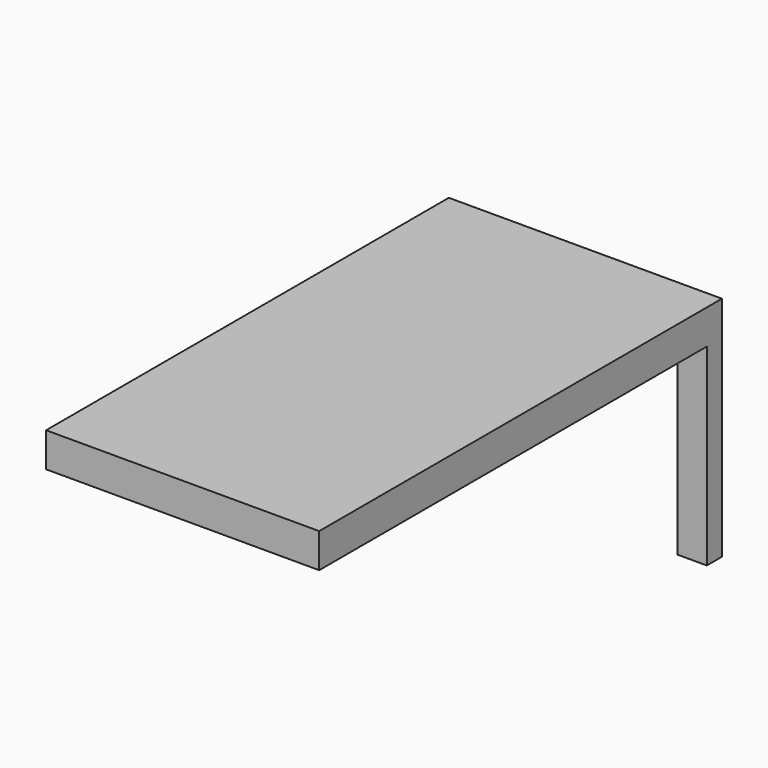
from build123d import *

# Parameters (mm, degrees)
F0_W     = 41.2172749639
F0_H     = 75.9690925479
F1_DEPTH = 5.19546
F2_W     = 4.0409080684
F2_H     = 28.6904554814
F3_DEPTH = 3.31435
F4_W     = 4.445001483
F4_H     = 29.0945470333
F5_DEPTH = 2.85121


with BuildPart() as f1:
    # F0 (on Top) → F1 (new body)
    with BuildSketch(Plane.XY):
        with Locations((20.6086374819, -37.9845462739)):
            Rectangle(F0_W, F0_H)
    extrude(amount=F1_DEPTH)

    # F2 (on Front) → F3 (join)
    with BuildSketch(Plane.XZ):
        with Locations((2.0204540342, -14.3452277407)):
            Rectangle(F2_W, F2_H)
    extrude(amount=F3_DEPTH)

    # F4 (on Front) → F5 (join)
    with BuildSketch(Plane.XZ):
        with Locations((38.9947742224, -14.5472735167)):
            Rectangle(F4_W, F4_H)
    extrude(amount=F5_DEPTH)


solid = f1.part
